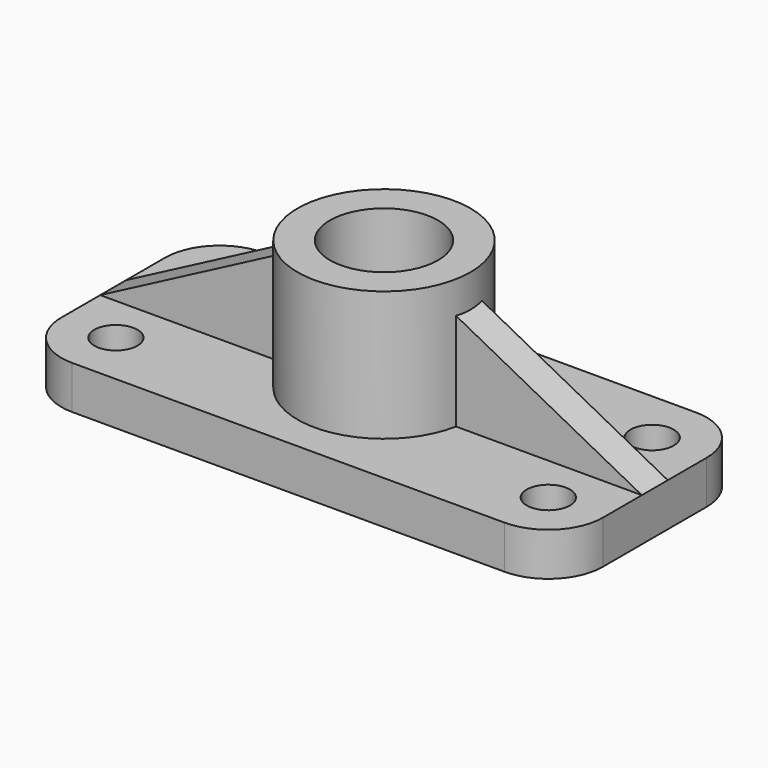
from build123d import *

# Parameters (mm, degrees)
F0_R     = 6.35
F1_DEPTH = 12.7
F2_R     = 25.4
F3_DEPTH = 38.1
F5_DEPTH = 4.7625
F6_R     = 15.875
F7_DEPTH = 50.801


with BuildPart() as f1:
    # F0 (on Top) → F1 (new body)
    with BuildSketch(Plane.XY):
        with BuildLine():
            Line((-63.5, -35.076942), (0, -35.076942))
            Line((0, -35.076942), (63.5, -35.076942))
            ThreePointArc((63.5, -35.076942), (74.83276, -30.38276), (79.526942, -19.05))
            Line((79.526942, -19.05), (79.526942, 0))
            Line((79.526942, 0), (79.526942, 19.05))
            ThreePointArc((79.526942, 19.05), (74.83276, 30.38276), (63.5, 35.076942))
            Line((63.5, 35.076942), (0, 35.076942))
            Line((0, 35.076942), (-63.5, 35.076942))
            ThreePointArc((-63.5, 35.076942), (-74.83276, 30.38276), (-79.526942, 19.05))
            Line((-79.526942, 19.05), (-79.526942, 0))
            Line((-79.526942, 0), (-79.526942, -19.05))
            ThreePointArc((-79.526942, -19.05), (-74.83276, -30.38276), (-63.5, -35.076942))
        make_face()
        with Locations((-63.5, -19.05)):
            Circle(F0_R, mode=Mode.SUBTRACT)
        with Locations((63.5, -19.05)):
            Circle(F0_R, mode=Mode.SUBTRACT)
        with Locations((-63.5, 19.05)):
            Circle(F0_R, mode=Mode.SUBTRACT)
        with Locations((63.5, 19.05)):
            Circle(F0_R, mode=Mode.SUBTRACT)
    extrude(amount=-F1_DEPTH)

    # F2 (on face) → F3 (join)
    with BuildSketch(Plane.XY):
        Circle(F2_R)
    extrude(amount=F3_DEPTH)

    # F4 (on Front) → F5 (join, symmetric)
    with BuildSketch(Plane.XZ):
        Polygon((-19.05, 31.75), (-79.5274, 0), (79.5274, 0), (19.05, 31.75), align=None)
    extrude(amount=F5_DEPTH, both=True)

    # F6 (on face) → F7 (cut, through all)
    with BuildSketch(Plane.XY.offset(38.1)):
        Circle(F6_R)
    extrude(amount=-F7_DEPTH, mode=Mode.SUBTRACT)


solid = f1.part
